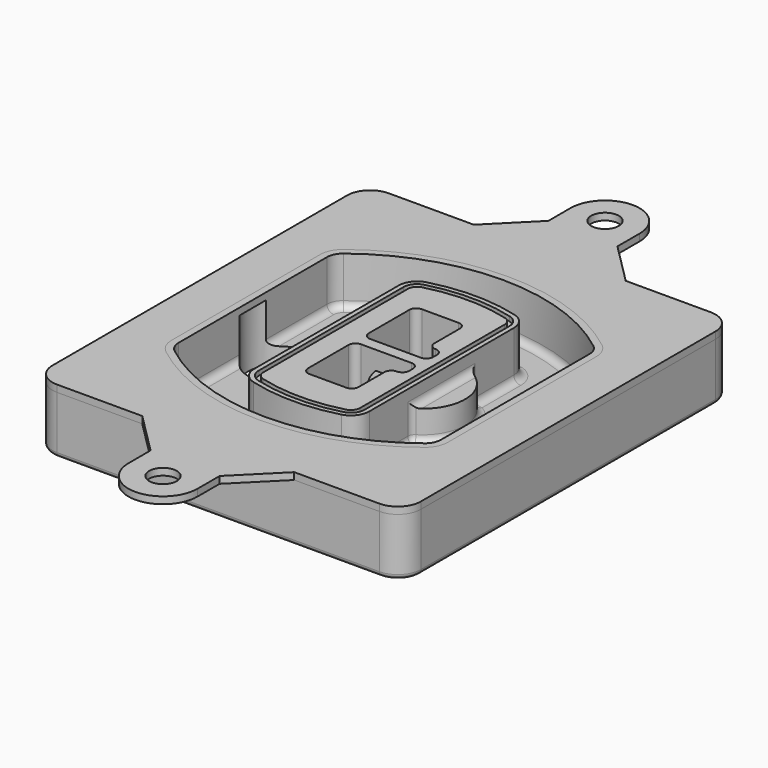
from build123d import *

# Parameters (mm, degrees)
F0_R      = 4
F1_DEPTH  = 25
F2_DEPTH  = 3
F3_DEPTH  = 18
F5_DEPTH  = 21
F6_DEPTH  = 2
F8_DEPTH  = 20
F9_DEPTH  = 16
F10_DEPTH = 25
F7_R      = 6
F7_R_2    = 4
F11_DEPTH = 6
F13_DEPTH = 9
F14_R     = 3
F15_R     = 2
F16_R     = 6
F17_DEPTH = 3


with BuildPart() as f1:
    # F0 (on Top) → F1 (new body)
    with BuildSketch(Plane.XY):
        with BuildLine():
            ThreePointArc((-80, -80), (-77.0710678119, -87.0710678119), (-70, -90))
            Line((-70, -90), (70, -90))
            ThreePointArc((70, -90), (77.0710678119, -87.0710678119), (80, -80))
            Line((80, -80), (80, 80))
            ThreePointArc((80, 80), (77.0710678119, 87.0710678119), (70, 90))
            Line((70, 90), (-70, 90))
            ThreePointArc((-70, 90), (-77.0710678119, 87.0710678119), (-80, 80))
            Line((-80, 80), (-80, -80))
        make_face()
        with Locations((-60, -67.5)):
            Circle(F0_R, mode=Mode.SUBTRACT)
        with Locations((60, -67.5)):
            Circle(F0_R, mode=Mode.SUBTRACT)
        with Locations((-60, 67.5)):
            Circle(F0_R, mode=Mode.SUBTRACT)
        with BuildLine():
            ThreePointArc((-64, 40.2934422872), (-62.5820384798, 46.4328484224), (-58.6153846154, 51.3286200352))
            ThreePointArc((-58.6153846154, 51.3286200352), (0, 71.5), (58.6153846154, 51.3286200352))
            ThreePointArc((58.6153846154, 51.3286200352), (62.5820384798, 46.4328484224), (64, 40.2934422872))
            Line((64, 40.2934422872), (64, -40.2934422872))
            ThreePointArc((64, -40.2934422872), (62.5820384798, -46.4328484224), (58.6153846154, -51.3286200352))
            ThreePointArc((58.6153846154, -51.3286200352), (0, -71.5), (-58.6153846154, -51.3286200352))
            ThreePointArc((-58.6153846154, -51.3286200352), (-62.5820384798, -46.4328484224), (-64, -40.2934422872))
            Line((-64, -40.2934422872), (-64, 40.2934422872))
        make_face(mode=Mode.SUBTRACT)
        with Locations((60, 67.5)):
            Circle(F0_R, mode=Mode.SUBTRACT)
        with BuildLine():
            ThreePointArc((58.6153846154, 51.3286200352), (0, 71.5), (-58.6153846154, 51.3286200352))
            ThreePointArc((-58.6153846154, 51.3286200352), (-62.5820384798, 46.4328484224), (-64, 40.2934422872))
            Line((-64, 40.2934422872), (-64, -40.2934422872))
            ThreePointArc((-64, -40.2934422872), (-62.5820384798, -46.4328484224), (-58.6153846154, -51.3286200352))
            ThreePointArc((-58.6153846154, -51.3286200352), (0, -71.5), (58.6153846154, -51.3286200352))
            ThreePointArc((58.6153846154, -51.3286200352), (62.5820384798, -46.4328484224), (64, -40.2934422872))
            Line((64, -40.2934422872), (64, 40.2934422872))
            ThreePointArc((64, 40.2934422872), (62.5820384798, 46.4328484224), (58.6153846154, 51.3286200352))
        make_face()
        with BuildLine():
            Line((-60, -40.2934422872), (-60, 40.2934422872))
            ThreePointArc((-60, 40.2934422872), (-58.9871703427, 44.6787323838), (-56.1538461538, 48.1757121072))
            ThreePointArc((-56.1538461538, 48.1757121072), (0, 67.5), (56.1538461538, 48.1757121072))
            ThreePointArc((56.1538461538, 48.1757121072), (58.9871703427, 44.6787323838), (60, 40.2934422872))
            Line((60, 40.2934422872), (60, -40.2934422872))
            ThreePointArc((60, -40.2934422872), (58.9871703427, -44.6787323838), (56.1538461538, -48.1757121072))
            ThreePointArc((56.1538461538, -48.1757121072), (0, -67.5), (-56.1538461538, -48.1757121072))
            ThreePointArc((-56.1538461538, -48.1757121072), (-58.9871703427, -44.6787323838), (-60, -40.2934422872))
        make_face(mode=Mode.SUBTRACT)
        with BuildLine():
            ThreePointArc((-56.1538461538, 48.1757121072), (-58.9871703427, 44.6787323838), (-60, 40.2934422872))
            Line((-60, 40.2934422872), (-60, -40.2934422872))
            ThreePointArc((-60, -40.2934422872), (-58.9871703427, -44.6787323838), (-56.1538461538, -48.1757121072))
            ThreePointArc((-56.1538461538, -48.1757121072), (0, -67.5), (56.1538461538, -48.1757121072))
            ThreePointArc((56.1538461538, -48.1757121072), (58.9871703427, -44.6787323838), (60, -40.2934422872))
            Line((60, -40.2934422872), (60, 40.2934422872))
            ThreePointArc((60, 40.2934422872), (58.9871703427, 44.6787323838), (56.1538461538, 48.1757121072))
            ThreePointArc((56.1538461538, 48.1757121072), (0, 67.5), (-56.1538461538, 48.1757121072))
        make_face()
        with BuildLine():
            ThreePointArc((54.3076923077, 45.8110311612), (56.2910192399, 43.3631453548), (57, 40.2934422872))
            Line((57, 40.2934422872), (57, -40.2934422872))
            ThreePointArc((57, -40.2934422872), (56.2910192399, -43.3631453548), (54.3076923077, -45.8110311612))
            ThreePointArc((54.3076923077, -45.8110311612), (0, -64.5), (-54.3076923077, -45.8110311612))
            ThreePointArc((-54.3076923077, -45.8110311612), (-56.2910192399, -43.3631453548), (-57, -40.2934422872))
            Line((-57, -40.2934422872), (-57, 40.2934422872))
            ThreePointArc((-57, 40.2934422872), (-56.2910192399, 43.3631453548), (-54.3076923077, 45.8110311612))
            ThreePointArc((-54.3076923077, 45.8110311612), (0, 64.5), (54.3076923077, 45.8110311612))
        make_face(mode=Mode.SUBTRACT)
        with BuildLine():
            Line((57, -40.2934422872), (57, 40.2934422872))
            ThreePointArc((57, 40.2934422872), (56.2910192399, 43.3631453548), (54.3076923077, 45.8110311612))
            ThreePointArc((54.3076923077, 45.8110311612), (0, 64.5), (-54.3076923077, 45.8110311612))
            ThreePointArc((-54.3076923077, 45.8110311612), (-56.2910192399, 43.3631453548), (-57, 40.2934422872))
            Line((-57, 40.2934422872), (-57, -40.2934422872))
            ThreePointArc((-57, -40.2934422872), (-56.2910192399, -43.3631453548), (-54.3076923077, -45.8110311612))
            ThreePointArc((-54.3076923077, -45.8110311612), (0, -64.5), (54.3076923077, -45.8110311612))
            ThreePointArc((54.3076923077, -45.8110311612), (56.2910192399, -43.3631453548), (57, -40.2934422872))
        make_face()
    extrude(amount=-F1_DEPTH)

    # F0 (on Top) → F2 (join)
    with BuildSketch(Plane.XY):
        with BuildLine():
            ThreePointArc((-56.1538461538, 48.1757121072), (-58.9871703427, 44.6787323838), (-60, 40.2934422872))
            Line((-60, 40.2934422872), (-60, -40.2934422872))
            ThreePointArc((-60, -40.2934422872), (-58.9871703427, -44.6787323838), (-56.1538461538, -48.1757121072))
            ThreePointArc((-56.1538461538, -48.1757121072), (0, -67.5), (56.1538461538, -48.1757121072))
            ThreePointArc((56.1538461538, -48.1757121072), (58.9871703427, -44.6787323838), (60, -40.2934422872))
            Line((60, -40.2934422872), (60, 40.2934422872))
            ThreePointArc((60, 40.2934422872), (58.9871703427, 44.6787323838), (56.1538461538, 48.1757121072))
            ThreePointArc((56.1538461538, 48.1757121072), (0, 67.5), (-56.1538461538, 48.1757121072))
        make_face()
        with BuildLine():
            ThreePointArc((54.3076923077, 45.8110311612), (56.2910192399, 43.3631453548), (57, 40.2934422872))
            Line((57, 40.2934422872), (57, -40.2934422872))
            ThreePointArc((57, -40.2934422872), (56.2910192399, -43.3631453548), (54.3076923077, -45.8110311612))
            ThreePointArc((54.3076923077, -45.8110311612), (0, -64.5), (-54.3076923077, -45.8110311612))
            ThreePointArc((-54.3076923077, -45.8110311612), (-56.2910192399, -43.3631453548), (-57, -40.2934422872))
            Line((-57, -40.2934422872), (-57, 40.2934422872))
            ThreePointArc((-57, 40.2934422872), (-56.2910192399, 43.3631453548), (-54.3076923077, 45.8110311612))
            ThreePointArc((-54.3076923077, 45.8110311612), (0, 64.5), (54.3076923077, 45.8110311612))
        make_face(mode=Mode.SUBTRACT)
    extrude(amount=F2_DEPTH)

    # F0 (on Top) → F3 (cut)
    with BuildSketch(Plane.XY):
        with BuildLine():
            Line((57, -40.2934422872), (57, 40.2934422872))
            ThreePointArc((57, 40.2934422872), (56.2910192399, 43.3631453548), (54.3076923077, 45.8110311612))
            ThreePointArc((54.3076923077, 45.8110311612), (0, 64.5), (-54.3076923077, 45.8110311612))
            ThreePointArc((-54.3076923077, 45.8110311612), (-56.2910192399, 43.3631453548), (-57, 40.2934422872))
            Line((-57, 40.2934422872), (-57, -40.2934422872))
            ThreePointArc((-57, -40.2934422872), (-56.2910192399, -43.3631453548), (-54.3076923077, -45.8110311612))
            ThreePointArc((-54.3076923077, -45.8110311612), (0, -64.5), (54.3076923077, -45.8110311612))
            ThreePointArc((54.3076923077, -45.8110311612), (56.2910192399, -43.3631453548), (57, -40.2934422872))
        make_face()
    extrude(amount=-F3_DEPTH, mode=Mode.SUBTRACT)

    # F4 (on face) → F5 (join, through all)
    with BuildSketch(Plane.XY.offset(3)):
        with BuildLine():
            ThreePointArc((-25, -39.2465276821), (-23.3511545998, -44.1109737193), (-19.0842911877, -46.9702398883))
            ThreePointArc((-19.0842911877, -46.9702398883), (0, -49.5), (19.0842911877, -46.9702398883))
            ThreePointArc((19.0842911877, -46.9702398883), (23.3511545998, -44.1109737193), (25, -39.2465276821))
            Line((25, -39.2465276821), (25, 39.2465276821))
            ThreePointArc((25, 39.2465276821), (23.3511545998, 44.1109737193), (19.0842911877, 46.9702398883))
            ThreePointArc((19.0842911877, 46.9702398883), (0, 49.5), (-19.0842911877, 46.9702398883))
            ThreePointArc((-19.0842911877, 46.9702398883), (-23.3511545998, 44.1109737193), (-25, 39.2465276821))
            Line((-25, 39.2465276821), (-25, -39.2465276821))
        make_face()
        with BuildLine():
            ThreePointArc((18.5632183908, 45.0393118368), (21.7633659499, 42.89486221), (23, 39.2465276821))
            Line((23, 39.2465276821), (23, -39.2465276821))
            ThreePointArc((23, -39.2465276821), (21.7633659499, -42.89486221), (18.5632183908, -45.0393118368))
            ThreePointArc((18.5632183908, -45.0393118368), (0, -47.5), (-18.5632183908, -45.0393118368))
            ThreePointArc((-18.5632183908, -45.0393118368), (-21.7633659499, -42.89486221), (-23, -39.2465276821))
            Line((-23, -39.2465276821), (-23, 39.2465276821))
            ThreePointArc((-23, 39.2465276821), (-21.7633659499, 42.89486221), (-18.5632183908, 45.0393118368))
            ThreePointArc((-18.5632183908, 45.0393118368), (0, 47.5), (18.5632183908, 45.0393118368))
        make_face(mode=Mode.SUBTRACT)
        with BuildLine():
            Line((23, -39.2465276821), (23, 39.2465276821))
            ThreePointArc((23, 39.2465276821), (21.7633659499, 42.89486221), (18.5632183908, 45.0393118368))
            ThreePointArc((18.5632183908, 45.0393118368), (0, 47.5), (-18.5632183908, 45.0393118368))
            ThreePointArc((-18.5632183908, 45.0393118368), (-21.7633659499, 42.89486221), (-23, 39.2465276821))
            Line((-23, 39.2465276821), (-23, -39.2465276821))
            ThreePointArc((-23, -39.2465276821), (-21.7633659499, -42.89486221), (-18.5632183908, -45.0393118368))
            ThreePointArc((-18.5632183908, -45.0393118368), (0, -47.5), (18.5632183908, -45.0393118368))
            ThreePointArc((18.5632183908, -45.0393118368), (21.7633659499, -42.89486221), (23, -39.2465276821))
        make_face()
        with BuildLine():
            ThreePointArc((18.0421455939, 43.1083837852), (20.1755772999, 41.6787507007), (21, 39.2465276821))
            Line((21, 39.2465276821), (21, -39.2465276821))
            ThreePointArc((21, -39.2465276821), (20.1755772999, -41.6787507007), (18.0421455939, -43.1083837852))
            ThreePointArc((18.0421455939, -43.1083837852), (0, -45.5), (-18.0421455939, -43.1083837852))
            ThreePointArc((-18.0421455939, -43.1083837852), (-20.1755772999, -41.6787507007), (-21, -39.2465276821))
            Line((-21, -39.2465276821), (-21, 39.2465276821))
            ThreePointArc((-21, 39.2465276821), (-20.1755772999, 41.6787507007), (-18.0421455939, 43.1083837852))
            ThreePointArc((-18.0421455939, 43.1083837852), (0, 45.5), (18.0421455939, 43.1083837852))
        make_face(mode=Mode.SUBTRACT)
        with BuildLine():
            Line((21, -39.2465276821), (21, 39.2465276821))
            ThreePointArc((21, 39.2465276821), (20.1755772999, 41.6787507007), (18.0421455939, 43.1083837852))
            ThreePointArc((18.0421455939, 43.1083837852), (0, 45.5), (-18.0421455939, 43.1083837852))
            ThreePointArc((-18.0421455939, 43.1083837852), (-20.1755772999, 41.6787507007), (-21, 39.2465276821))
            Line((-21, 39.2465276821), (-21, -39.2465276821))
            ThreePointArc((-21, -39.2465276821), (-20.1755772999, -41.6787507007), (-18.0421455939, -43.1083837852))
            ThreePointArc((-18.0421455939, -43.1083837852), (0, -45.5), (18.0421455939, -43.1083837852))
            ThreePointArc((18.0421455939, -43.1083837852), (20.1755772999, -41.6787507007), (21, -39.2465276821))
        make_face()
        with BuildLine():
            Line((-8, -2.5), (14, -2.5))
            ThreePointArc((14, -2.5), (16.1213203436, -3.3786796564), (17, -5.5))
            Line((17, -5.5), (17, -7.5))
            ThreePointArc((17, -7.5), (16.1213203436, -9.6213203436), (14, -10.5))
            ThreePointArc((14, -10.5), (11.8786796564, -11.3786796564), (11, -13.5))
            Line((11, -13.5), (11, -27.5))
            ThreePointArc((11, -27.5), (10.1213203436, -29.6213203436), (8, -30.5))
            Line((8, -30.5), (-8, -30.5))
            ThreePointArc((-8, -30.5), (-10.1213203436, -29.6213203436), (-11, -27.5))
            Line((-11, -27.5), (-11, -5.5))
            ThreePointArc((-11, -5.5), (-10.1213203436, -3.3786796564), (-8, -2.5))
        make_face(mode=Mode.SUBTRACT)
        with BuildLine():
            ThreePointArc((-8, 2.5), (-10.1213203436, 3.3786796564), (-11, 5.5))
            Line((-11, 5.5), (-11, 27.5))
            ThreePointArc((-11, 27.5), (-10.1213203436, 29.6213203436), (-8, 30.5))
            Line((-8, 30.5), (8, 30.5))
            ThreePointArc((8, 30.5), (10.1213203436, 29.6213203436), (11, 27.5))
            Line((11, 27.5), (11, 13.5))
            ThreePointArc((11, 13.5), (11.8786796564, 11.3786796564), (14, 10.5))
            ThreePointArc((14, 10.5), (16.1213203436, 9.6213203436), (17, 7.5))
            Line((17, 7.5), (17, 5.5))
            ThreePointArc((17, 5.5), (16.1213203436, 3.3786796564), (14, 2.5))
            Line((14, 2.5), (-8, 2.5))
        make_face(mode=Mode.SUBTRACT)
    extrude(amount=-F5_DEPTH)

    # F4 (on face) → F6 (cut)
    with BuildSketch(Plane.XY.offset(3)):
        with BuildLine():
            Line((23, -39.2465276821), (23, 39.2465276821))
            ThreePointArc((23, 39.2465276821), (21.7633659499, 42.89486221), (18.5632183908, 45.0393118368))
            ThreePointArc((18.5632183908, 45.0393118368), (0, 47.5), (-18.5632183908, 45.0393118368))
            ThreePointArc((-18.5632183908, 45.0393118368), (-21.7633659499, 42.89486221), (-23, 39.2465276821))
            Line((-23, 39.2465276821), (-23, -39.2465276821))
            ThreePointArc((-23, -39.2465276821), (-21.7633659499, -42.89486221), (-18.5632183908, -45.0393118368))
            ThreePointArc((-18.5632183908, -45.0393118368), (0, -47.5), (18.5632183908, -45.0393118368))
            ThreePointArc((18.5632183908, -45.0393118368), (21.7633659499, -42.89486221), (23, -39.2465276821))
        make_face()
        with BuildLine():
            ThreePointArc((18.0421455939, 43.1083837852), (20.1755772999, 41.6787507007), (21, 39.2465276821))
            Line((21, 39.2465276821), (21, -39.2465276821))
            ThreePointArc((21, -39.2465276821), (20.1755772999, -41.6787507007), (18.0421455939, -43.1083837852))
            ThreePointArc((18.0421455939, -43.1083837852), (0, -45.5), (-18.0421455939, -43.1083837852))
            ThreePointArc((-18.0421455939, -43.1083837852), (-20.1755772999, -41.6787507007), (-21, -39.2465276821))
            Line((-21, -39.2465276821), (-21, 39.2465276821))
            ThreePointArc((-21, 39.2465276821), (-20.1755772999, 41.6787507007), (-18.0421455939, 43.1083837852))
            ThreePointArc((-18.0421455939, 43.1083837852), (0, 45.5), (18.0421455939, 43.1083837852))
        make_face(mode=Mode.SUBTRACT)
    extrude(amount=-F6_DEPTH, mode=Mode.SUBTRACT)

    # F7 (on face) → F8 (join)
    with BuildSketch(Plane(origin=(0, 0, -25), x_dir=(1, 0, 0), z_dir=(0, 0, -1))):
        with BuildLine():
            ThreePointArc((3.28842436, 0), (16.7567035675, 13.4682792075), (30.224982775, 0))
            Line((30.224982775, 0), (35.224982775, 0))
            ThreePointArc((35.224982775, 0), (16.7567035675, 18.4682792075), (-1.71157564, 0))
            Line((-1.71157564, 0), (3.28842436, 0))
        make_face()
        with BuildLine():
            Line((3.28842436, 0), (30.224982775, 0))
            ThreePointArc((30.224982775, 0), (16.7567035675, 13.4682792075), (3.28842436, 0))
        make_face()
        with BuildLine():
            ThreePointArc((3.28842436, 0), (16.7567035675, -13.4682792075), (30.224982775, 0))
            Line((30.224982775, 0), (3.28842436, 0))
        make_face()
        with BuildLine():
            Line((35.224982775, 0), (30.224982775, 0))
            ThreePointArc((30.224982775, 0), (16.7567035675, -13.4682792075), (3.28842436, 0))
            Line((3.28842436, 0), (-1.71157564, 0))
            ThreePointArc((-1.71157564, 0), (16.7567035675, -18.4682792075), (35.224982775, 0))
        make_face()
    extrude(amount=-F8_DEPTH)

    # F7 (on face) → F9 (cut)
    with BuildSketch(Plane(origin=(0, 0, -25), x_dir=(1, 0, 0), z_dir=(0, 0, -1))):
        with BuildLine():
            Line((3.28842436, 0), (30.224982775, 0))
            ThreePointArc((30.224982775, 0), (16.7567035675, 13.4682792075), (3.28842436, 0))
        make_face()
        with BuildLine():
            ThreePointArc((3.28842436, 0), (16.7567035675, -13.4682792075), (30.224982775, 0))
            Line((30.224982775, 0), (3.28842436, 0))
        make_face()
    extrude(amount=-F9_DEPTH, mode=Mode.SUBTRACT)

    # F7 (on face) → F10 (cut)
    with BuildSketch(Plane(origin=(0, 0, -25), x_dir=(1, 0, 0), z_dir=(0, 0, -1))):
        with BuildLine():
            Line((-59.0318229325, 0), (-32.0952645175, 0))
            ThreePointArc((-32.0952645175, 0), (-45.563543725, 13.4682792075), (-59.0318229325, 0))
        make_face()
        with BuildLine():
            ThreePointArc((-59.0318229325, 0), (-45.563543725, -13.4682792075), (-32.0952645175, 0))
            Line((-32.0952645175, 0), (-59.0318229325, 0))
        make_face()
    extrude(amount=-F10_DEPTH, mode=Mode.SUBTRACT)

    # F7 (on face) → F11 (cut)
    with BuildSketch(Plane(origin=(0, 0, -25), x_dir=(1, 0, 0), z_dir=(0, 0, -1))):
        with Locations((60, -67.5)):
            Circle(F7_R)
        with Locations((60, -67.5)):
            Circle(F7_R_2, mode=Mode.SUBTRACT)
        with Locations((60, -67.5)):
            Circle(F7_R)
        with Locations((60, -67.5)):
            Circle(F7_R_2, mode=Mode.SUBTRACT)
        with Locations((-60, -67.5)):
            Circle(F7_R)
        with Locations((-60, -67.5)):
            Circle(F7_R_2, mode=Mode.SUBTRACT)
        with Locations((-60, -67.5)):
            Circle(F7_R)
        with Locations((-60, -67.5)):
            Circle(F7_R_2, mode=Mode.SUBTRACT)
        with Locations((-60, 67.5)):
            Circle(F7_R)
        with Locations((-60, 67.5)):
            Circle(F7_R_2, mode=Mode.SUBTRACT)
        with Locations((-60, 67.5)):
            Circle(F7_R)
        with Locations((-60, 67.5)):
            Circle(F7_R_2, mode=Mode.SUBTRACT)
        with Locations((60, 67.5)):
            Circle(F7_R)
        with Locations((60, 67.5)):
            Circle(F7_R_2, mode=Mode.SUBTRACT)
        with Locations((60, 67.5)):
            Circle(F7_R)
        with Locations((60, 67.5)):
            Circle(F7_R_2, mode=Mode.SUBTRACT)
    extrude(amount=-F11_DEPTH, mode=Mode.SUBTRACT)

    # F12 (on face) → F13 (cut, through all)
    with BuildSketch(Plane(origin=(0, 0, -9), x_dir=(1, 0, 0), z_dir=(0, 0, -1))):
        with BuildLine():
            Line((11, 13.5), (11, 17.5481537753))
            ThreePointArc((11, 17.5481537753), (2.5696536419, 11.8239143813), (-1.5415842455, 2.5))
            Line((-1.5415842455, 2.5), (3.5224848595, 2.5))
            ThreePointArc((3.5224848595, 2.5), (6.1857188154, 8.3455872281), (11.2536447004, 12.2927168648))
            ThreePointArc((11.2536447004, 12.2927168648), (11.0640958889, 12.8831798879), (11, 13.5))
        make_face()
        with BuildLine():
            ThreePointArc((11.2536447004, -12.2927168648), (6.1857188154, -8.3455872281), (3.5224848595, -2.5))
            Line((3.5224848595, -2.5), (-1.5415842455, -2.5))
            ThreePointArc((-1.5415842455, -2.5), (2.5696536419, -11.8239143813), (11, -17.5481537753))
            Line((11, -17.5481537753), (11, -13.5))
            ThreePointArc((11, -13.5), (11.0640958889, -12.8831798879), (11.2536447004, -12.2927168648))
        make_face()
        with BuildLine():
            ThreePointArc((11.2536447004, 12.2927168648), (6.1857188154, 8.3455872281), (3.5224848595, 2.5))
            Line((3.5224848595, 2.5), (14, 2.5))
            ThreePointArc((14, 2.5), (16.1213203436, 3.3786796564), (17, 5.5))
            Line((17, 5.5), (17, 7.5))
            ThreePointArc((17, 7.5), (16.1213203436, 9.6213203436), (14, 10.5))
            ThreePointArc((14, 10.5), (12.3601599782, 10.9878446101), (11.2536447004, 12.2927168648))
        make_face()
        with BuildLine():
            Line((14, -2.5), (3.5224848595, -2.5))
            ThreePointArc((3.5224848595, -2.5), (6.1857188154, -8.3455872281), (11.2536447004, -12.2927168648))
            ThreePointArc((11.2536447004, -12.2927168648), (12.3601599782, -10.9878446101), (14, -10.5))
            ThreePointArc((14, -10.5), (16.1213203436, -9.6213203436), (17, -7.5))
            Line((17, -7.5), (17, -5.5))
            ThreePointArc((17, -5.5), (16.1213203436, -3.3786796564), (14, -2.5))
        make_face()
    extrude(amount=F13_DEPTH, mode=Mode.SUBTRACT)

    # F14
    f14_edges = [f1.edges().sort_by_distance(p)[0] for p in [
        (-57, -23.703476, -18),
        (-57, 23.703476, -18),
        (25, 0, -5),
        (25, 16.526506, -11.5),
        (25, -16.526506, -11.5),
        (25, -27.886517, -18),
        (35.224983, 0, -18),
    ]]
    fillet(f14_edges, radius=F14_R)

    # F15
    f15_edges = [f1.edges().sort_by_distance(p)[0] for p in [
        (0, -90, -25),
    ]]
    fillet(f15_edges, radius=F15_R)


with BuildPart() as f17:
    # F16 (on face) → F17 (new body, through all)
    with BuildSketch(Plane.XY):
        with BuildLine():
            Line((-33, 90), (-70, 90))
            ThreePointArc((-70, 90), (-77.0710678119, 87.0710678119), (-80, 80))
            Line((-80, 80), (-80, -80))
            ThreePointArc((-80, -80), (-77.0710678119, -87.0710678119), (-70, -90))
            Line((-70, -90), (-33, -90))
            Line((-33, -90), (33, -90))
            Line((33, -90), (70, -90))
            ThreePointArc((70, -90), (77.0710678119, -87.0710678119), (80, -80))
            Line((80, -80), (80, 80))
            ThreePointArc((80, 80), (77.0710678119, 87.0710678119), (70, 90))
            Line((70, 90), (33, 90))
            Line((33, 90), (-33, 90))
        make_face()
        with BuildLine():
            ThreePointArc((-56.1538461538, 48.1757121072), (0, 67.5), (56.1538461538, 48.1757121072))
            ThreePointArc((56.1538461538, 48.1757121072), (58.9871703427, 44.6787323838), (60, 40.2934422872))
            Line((60, 40.2934422872), (60, -40.2934422872))
            ThreePointArc((60, -40.2934422872), (58.9871703427, -44.6787323838), (56.1538461538, -48.1757121072))
            ThreePointArc((56.1538461538, -48.1757121072), (0, -67.5), (-56.1538461538, -48.1757121072))
            ThreePointArc((-56.1538461538, -48.1757121072), (-58.9871703427, -44.6787323838), (-60, -40.2934422872))
            Line((-60, -40.2934422872), (-60, 40.2934422872))
            ThreePointArc((-60, 40.2934422872), (-58.9871703427, 44.6787323838), (-56.1538461538, 48.1757121072))
        make_face(mode=Mode.SUBTRACT)
        with BuildLine():
            Line((-15, 108), (-33, 90))
            Line((-33, 90), (33, 90))
            Line((33, 90), (15, 108))
            Line((15, 108), (15, 120))
            ThreePointArc((15, 120), (0, 135), (-15, 120))
            Line((-15, 120), (-15, 108))
        make_face()
        with Locations((0, 120)):
            Circle(F16_R, mode=Mode.SUBTRACT)
        with BuildLine():
            Line((33, -90), (-33, -90))
            Line((-33, -90), (-15, -108))
            Line((-15, -108), (-15, -120))
            ThreePointArc((-15, -120), (0, -135), (15, -120))
            Line((15, -120), (15, -108))
            Line((15, -108), (33, -90))
        make_face()
        with Locations((0, -120)):
            Circle(F16_R, mode=Mode.SUBTRACT)
    extrude(amount=F17_DEPTH)


solid = Compound([f1.part, f17.part])
